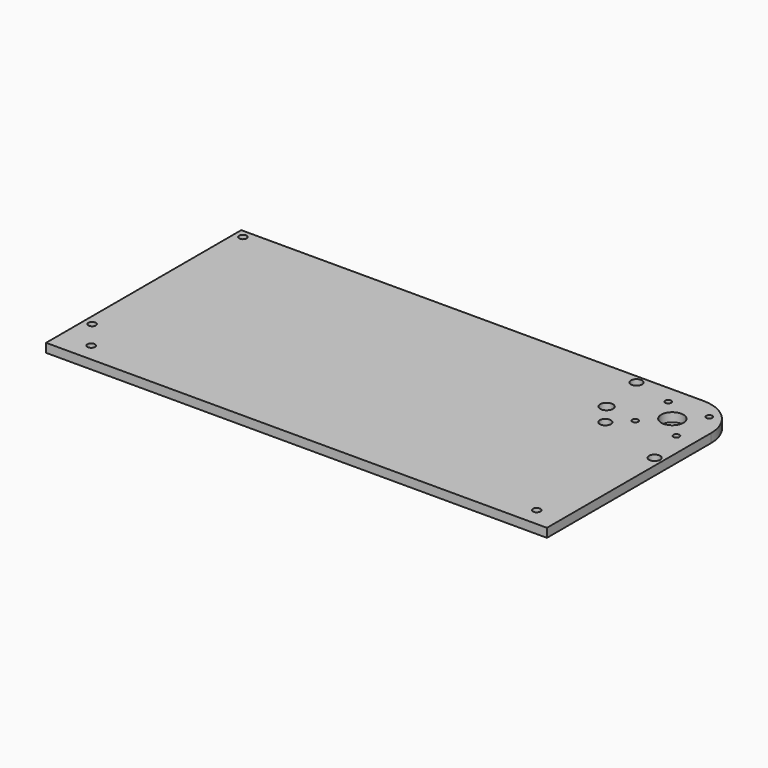
from build123d import *

# Parameters (mm, degrees)
F0_R     = 2.15265
F0_R_2   = 3.175
F0_R_3   = 3.660757
F0_R_4   = 1.7272
F0_R_5   = 6.35
F1_DEPTH = 5.08


with BuildPart() as f1:
    # F0 (on Top) → F1 (new body)
    with BuildSketch(Plane.XY):
        with BuildLine():
            Line((0, 22.225), (-264.908055, 22.225))
            Line((-264.908055, 22.225), (-264.908055, -117.625774))
            Line((-264.908055, -117.625774), (22.225, -117.625774))
            Line((22.225, -117.625774), (22.225, -96.670774))
            Line((22.225, -96.670774), (22.225, 0))
            ThreePointArc((22.225, 0), (15.715448, 15.715448), (0, 22.225))
        make_face()
        with Locations((-247.445555, -107.148274)):
            Circle(F0_R, mode=Mode.SUBTRACT)
        with Locations((-260.145555, -90.638274)):
            Circle(F0_R, mode=Mode.SUBTRACT)
        with Locations((7.9375, -107.148274)):
            Circle(F0_R, mode=Mode.SUBTRACT)
        with Locations((-260.145555, 17.4625)):
            Circle(F0_R, mode=Mode.SUBTRACT)
        with Locations((17.4625, -34.548124)):
            Circle(F0_R_2, mode=Mode.SUBTRACT)
        with Locations((-21.328108, -21.328108)):
            Circle(F0_R_2, mode=Mode.SUBTRACT)
        with Locations((-30.356012, -9.164019)):
            Circle(F0_R_3, mode=Mode.SUBTRACT)
        with Locations((-11.786586, -11.786586)):
            Circle(F0_R_4, mode=Mode.SUBTRACT)
        with Locations((11.786586, -11.786586)):
            Circle(F0_R_4, mode=Mode.SUBTRACT)
        Circle(F0_R_5, mode=Mode.SUBTRACT)
        with Locations((-34.548124, 17.4625)):
            Circle(F0_R_2, mode=Mode.SUBTRACT)
        with Locations((-11.786586, 11.786586)):
            Circle(F0_R_4, mode=Mode.SUBTRACT)
        with Locations((11.786586, 11.786586)):
            Circle(F0_R_4, mode=Mode.SUBTRACT)
    extrude(amount=F1_DEPTH)


solid = f1.part
